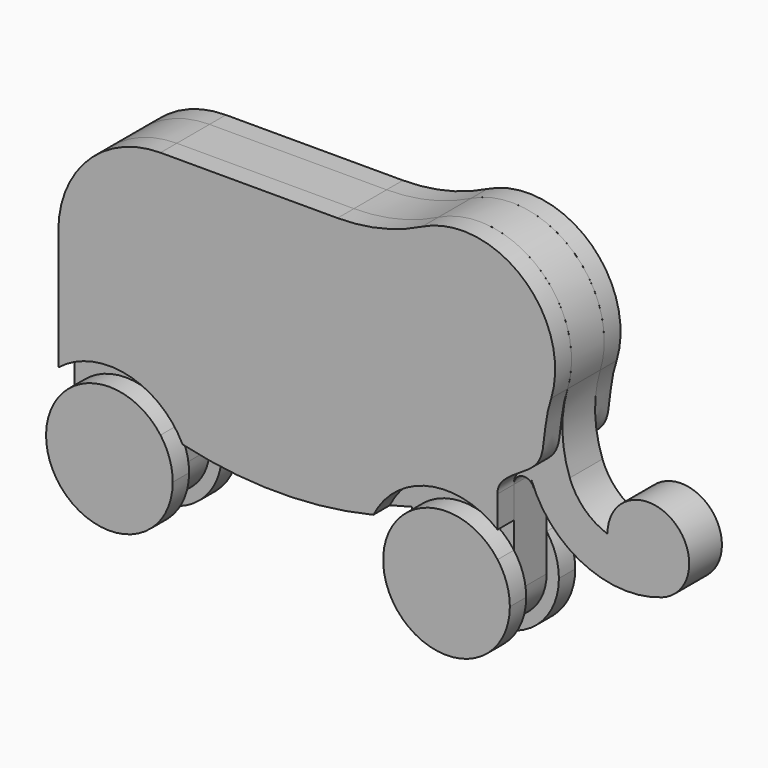
from build123d import *

# Parameters (mm, degrees)
F1_DEPTH = 10
F3_DEPTH = 10
F6_DEPTH = 10


with BuildPart() as f1:
    # F0 (on Front) → F1 (new body, symmetric)
    with BuildSketch(Plane.XZ):
        with BuildLine():
            ThreePointArc((-109.9863715538, 15.0775118893), (-52.4914807127, 6.6351729921), (5.0034101283, 15.0775118893))
            ThreePointArc((5.0034101283, 15.0775118893), (30.0034101283, 26.810952232), (55.0034101283, 15.0775118893))
            Line((55.0034101283, 15.0775118893), (55.0034101283, 40.9545431339))
            ThreePointArc((55.0034101283, 40.9545431339), (59.13516924, 45.878581899), (64.7018732323, 42.6646438505))
            Line((64.7018732323, 42.6646438505), (63.5539137115, 45.8186367123))
            ThreePointArc((63.5539137115, 45.8186367123), (89.4076316637, 17.6042545268), (127.6395519171, 15.9350128393))
            ThreePointArc((127.6395519171, 15.9350128393), (109.403341247, 18.293063951), (100.800000778, 34.5442890563))
            ThreePointArc((100.800000778, 34.5442890563), (89.5220173312, 41.5115712138), (82.3477661272, 52.6590395789))
            Line((82.3477661272, 52.6590395789), (73.7972625441, 76.1513550985))
            ThreePointArc((73.7972625441, 76.1513550985), (8.9945822777, 69.2658261804), (5.0034101283, 134.310952232))
            Line((5.0034101283, 134.310952232), (-23.3257505188, 134.310952232))
            Line((-23.3257505188, 134.310952232), (-109.9863715538, 134.310952232))
            ThreePointArc((-109.9863715538, 134.310952232), (-145.3417106131, 119.6662912913), (-159.9863715538, 84.310952232))
            Line((-159.9863715538, 84.310952232), (-159.9863715538, 15.0775118893))
            ThreePointArc((-159.9863715538, 15.0775118893), (-134.9863715538, 26.810952232), (-109.9863715538, 15.0775118893))
        make_face()
        with BuildLine():
            Line((-109.9863715538, -5.689047768), (-109.9863715538, 15.0775118893))
            ThreePointArc((-109.9863715538, 15.0775118893), (-134.9863715538, 26.810952232), (-159.9863715538, 15.0775118893))
            Line((-159.9863715538, 15.0775118893), (-159.9863715538, -5.689047768))
            ThreePointArc((-159.9863715538, -5.689047768), (-134.9863715538, 19.310952232), (-109.9863715538, -5.689047768))
        make_face()
        with BuildLine():
            ThreePointArc((-159.9863715538, -5.689047768), (-134.9863715538, -30.689047768), (-109.9863715538, -5.689047768))
            ThreePointArc((-109.9863715538, -5.689047768), (-134.9863715538, 19.310952232), (-159.9863715538, -5.689047768))
        make_face()
        with BuildLine():
            ThreePointArc((55.0034101283, -5.689047768), (30.0034101283, 19.310952232), (5.0034101283, -5.689047768))
            ThreePointArc((5.0034101283, -5.689047768), (30.0034101283, -30.689047768), (55.0034101283, -5.689047768))
        make_face()
        with BuildLine():
            ThreePointArc((55.0034101283, 15.0775118893), (30.0034101283, 26.810952232), (5.0034101283, 15.0775118893))
            Line((5.0034101283, 15.0775118893), (5.0034101283, -5.689047768))
            ThreePointArc((5.0034101283, -5.689047768), (30.0034101283, 19.310952232), (55.0034101283, -5.689047768))
            Line((55.0034101283, -5.689047768), (55.0034101283, 15.0775118893))
        make_face()
        with BuildLine():
            ThreePointArc((17.9754860674, 144.0415997005), (11.0483837227, 139.7642656748), (5.0034101283, 134.310952232))
            ThreePointArc((5.0034101283, 134.310952232), (8.9945822777, 69.2658261804), (73.7972625441, 76.1513550985))
            ThreePointArc((73.7972625441, 76.1513550985), (78.2001265033, 83.0798890213), (81.2737442599, 90.6918971171))
            ThreePointArc((81.2737442599, 90.6918971171), (82.7084308484, 97.124207571), (83.1900900666, 103.6969503608))
            ThreePointArc((83.1900900666, 103.6969503608), (61.8237581558, 142.0396005858), (17.9754860674, 144.0415997005))
        make_face()
        with BuildLine():
            Line((73.7972625441, 76.1513550985), (82.3477661272, 52.6590395789))
            ThreePointArc((82.3477661272, 52.6590395789), (78.7337568866, 71.5885760217), (81.2737442599, 90.6918971171))
            ThreePointArc((81.2737442599, 90.6918971171), (78.2001265033, 83.0798890213), (73.7972625441, 76.1513550985))
        make_face()
        with BuildLine():
            ThreePointArc((17.9754860674, 144.0415997005), (-2.1097327274, 136.7764666502), (-23.3257505188, 134.310952232))
            Line((-23.3257505188, 134.310952232), (5.0034101283, 134.310952232))
            ThreePointArc((5.0034101283, 134.310952232), (11.0483837227, 139.7642656748), (17.9754860674, 144.0415997005))
        make_face()
        with BuildLine():
            ThreePointArc((100.800000778, 34.5442890563), (109.403341247, 18.293063951), (127.6395519171, 15.9350128393))
            ThreePointArc((127.6395519171, 15.9350128393), (137.1821899363, 23.257336528), (140.7991490506, 34.728865255))
            ThreePointArc((140.7991490506, 34.728865255), (120.7068599686, 54.728652322), (100.800000778, 34.5442890563))
        make_face()
    extrude(amount=F1_DEPTH, both=True)


with BuildPart() as f3:
    # F2 (on face) → F3 (new body)
    with BuildSketch(Plane.XZ.offset(10)):
        with BuildLine():
            ThreePointArc((-159.9863715538, 12.6412550118), (-144.6300223147, -35.1508874933), (-103.9863715538, -5.689047768))
            ThreePointArc((-103.9863715538, -5.689047768), (-105.5245318284, 3.954602993), (-109.9863715537, 12.6412550118))
            Line((-109.9863715538, 12.6412550118), (-109.9863715538, -5.689047768))
            ThreePointArc((-109.9863715538, -5.689047768), (-134.9863715538, -30.689047768), (-159.9863715538, -5.689047768))
            Line((-159.9863715538, -5.689047768), (-159.9863715538, 12.6412550118))
        make_face()
        with BuildLine():
            Line((-109.9863715538, -5.689047768), (-109.9863715538, 12.6412550118))
            ThreePointArc((-109.9863715537, 12.6412550118), (-134.9863715537, 25.310952232), (-159.9863715538, 12.6412550118))
            Line((-159.9863715538, 12.6412550118), (-159.9863715538, -5.689047768))
            ThreePointArc((-159.9863715538, -5.689047768), (-134.9863715538, -30.689047768), (-109.9863715538, -5.689047768))
        make_face()
    extrude(amount=F3_DEPTH)


with BuildPart() as f3b:
    # F2 (on face) → F3, piece 2 (new body)
    with BuildSketch(Plane.XZ.offset(10)):
        with BuildLine():
            Line((5.0034101283, -5.689047768), (5.0034101283, 12.6412550118))
            ThreePointArc((5.0034101283, 12.6412550118), (20.3597593673, -35.1508874933), (61.0034101283, -5.689047768))
            ThreePointArc((61.0034101283, -5.689047768), (59.4652498537, 3.954602993), (55.0034101283, 12.6412550118))
            Line((55.0034101283, 12.6412550118), (55.0034101283, -5.689047768))
            ThreePointArc((55.0034101283, -5.689047768), (30.0034101283, -30.689047768), (5.0034101283, -5.689047768))
        make_face()
        with BuildLine():
            ThreePointArc((55.0034101283, 12.6412550118), (30.0034101283, 25.310952232), (5.0034101283, 12.6412550118))
            Line((5.0034101283, 12.6412550118), (5.0034101283, -5.689047768))
            ThreePointArc((5.0034101283, -5.689047768), (30.0034101283, -30.689047768), (55.0034101283, -5.689047768))
            Line((55.0034101283, -5.689047768), (55.0034101283, 12.6412550118))
        make_face()
    extrude(amount=F3_DEPTH)


with BuildPart() as f4_1:
    # F4: instance of F3
    add(f3.part.mirror(Plane.XZ))


with BuildPart() as f4_2:
    # F4: instance of F3b
    add(f3b.part.mirror(Plane.XZ))


with BuildPart() as f6:
    # F5 (on face) → F6 (new body)
    with BuildSketch(Plane.XZ.offset(10)):
        with BuildLine():
            ThreePointArc((81.2737442599, 90.6918971171), (67.1599365833, 138.1720247077), (17.9754860674, 144.0415997005))
            ThreePointArc((17.9754860674, 144.0415997005), (-2.1097327274, 136.7764666502), (-23.3257505188, 134.310952232))
            Line((-23.3257505188, 134.310952232), (-109.9863715538, 134.310952232))
            ThreePointArc((-109.9863715538, 134.310952232), (-145.3417106131, 119.6662912913), (-159.9863715538, 84.310952232))
            Line((-159.9863715538, 84.310952232), (-159.9863715538, 25.535942224))
            ThreePointArc((-159.9863715538, 25.535942224), (-126.3935833562, 33.3771011463), (-99.1914622222, 12.1638081925))
            ThreePointArc((-99.1914622222, 12.1638081925), (-52.4914807127, 6.6351729921), (-5.7914992032, 12.1638081925))
            ThreePointArc((-5.7914992032, 12.1638081925), (21.4106219308, 33.3771011463), (55.0034101283, 25.535942224))
            Line((55.0034101283, 25.535942224), (55.0034101283, 40.9545431339))
            add(Edge.make_bspline(
                [(55.0034101283, 40.9545431339), (54.5579449086, 47.5712268811), (69.8601535603, 55.014111341), (78.7572387814, 64.4975553299), (77.7230419168, 80.2440019801), (81.2737442599, 90.6918971171)],
                knots=[0, 0, 0, 0, 0.3394904316, 0.6091406625, 1, 1, 1, 1], degree=3))
        make_face()
    extrude(amount=F6_DEPTH)


with BuildPart() as f7_1:
    # F7: instance of F6
    add(f6.part.mirror(Plane.XZ))


solid = Compound([f1.part, f3.part, f3b.part, f4_1.part, f4_2.part, f6.part, f7_1.part])
